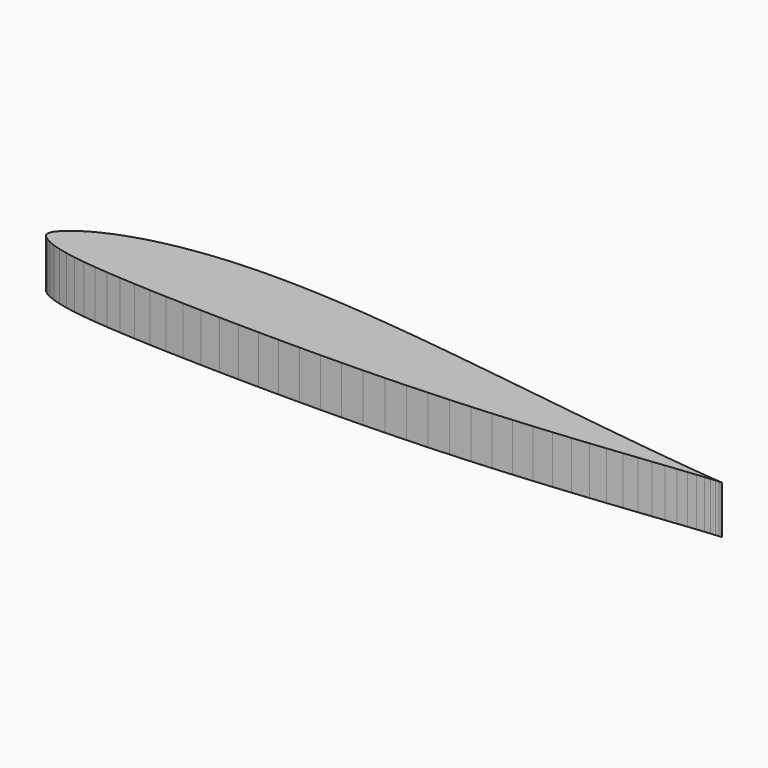
from build123d import *

# Parameters (mm, degrees)
PAD_DEPTH = 10


with BuildPart() as part:
    # Sketch001 → Pad (new body)
    with BuildSketch(Plane.XY):
        Polygon((140, 0), (139.8614, 0.0084), (139.4484, 0.0336), (138.7596, 0.0854), (137.8006, 0.1694), (136.5742, 0.2898), (135.0846, 0.4466), (133.3374, 0.6384), (131.341, 0.8638), (129.1024, 1.1214), (126.6314, 1.4126), (123.9364, 1.7416), (121.0272, 2.1042), (117.9178, 2.5032), (114.6194, 2.9344), (111.1446, 3.3978), (107.5074, 3.8906), (103.7232, 4.41), (99.8046, 4.9518), (95.7684, 5.5118), (91.6314, 6.0844), (87.409, 6.6668), (83.1166, 7.2492), (78.7738, 7.8246), (74.396, 8.386), (70, 8.9222), (65.6054, 9.4234), (61.2262, 9.8812), (56.8834, 10.2844), (52.5924, 10.6218), (48.3686, 10.8836), (44.2316, 11.0614), (40.1954, 11.1468), (36.2768, 11.1328), (32.4926, 11.0166), (28.8554, 10.7926), (25.3806, 10.4622), (22.0822, 10.0268), (18.9728, 9.492), (16.0636, 8.8648), (13.3686, 8.1536), (10.8976, 7.3724), (8.659, 6.5324), (6.6626, 5.649), (4.9154, 4.739), (3.4258, 3.8192), (2.1994, 2.9148), (1.2404, 2.058), (0.5516, 1.281), (0.1386, 0.5978), (0, 0), (0.1386, -0.546), (0.5516, -1.0738), (1.2404, -1.6016), (2.1994, -2.1224), (3.4258, -2.6166), (4.9154, -3.0688), (6.6626, -3.4734), (8.659, -3.8304), (10.8976, -4.1426), (13.3686, -4.4142), (16.0636, -4.6522), (18.9728, -4.858), (22.0822, -5.0386), (25.3806, -5.1954), (28.8554, -5.3326), (32.4926, -5.4516), (36.2768, -5.5538), (40.1954, -5.6392), (44.2316, -5.705), (48.3686, -5.7526), (52.5924, -5.7778), (56.8834, -5.7792), (61.2262, -5.7526), (65.6054, -5.6966), (70, -5.6084), (74.396, -5.4866), (78.7738, -5.3284), (83.1166, -5.1366), (87.409, -4.9112), (91.6314, -4.6536), (95.7684, -4.3666), (99.8046, -4.0558), (103.7232, -3.7254), (107.5074, -3.3824), (111.1446, -3.0296), (114.6194, -2.6768), (117.9178, -2.3282), (121.0272, -1.9922), (123.9364, -1.6716), (126.6314, -1.372), (129.1024, -1.099), (131.341, -0.8526), (133.3374, -0.6342), (135.0846, -0.4452), (136.5742, -0.2884), (137.8006, -0.1694), (138.7596, -0.0854), (139.4484, -0.0336), (139.8614, -0.0084), align=None)
    extrude(amount=PAD_DEPTH)


solid = part.part
